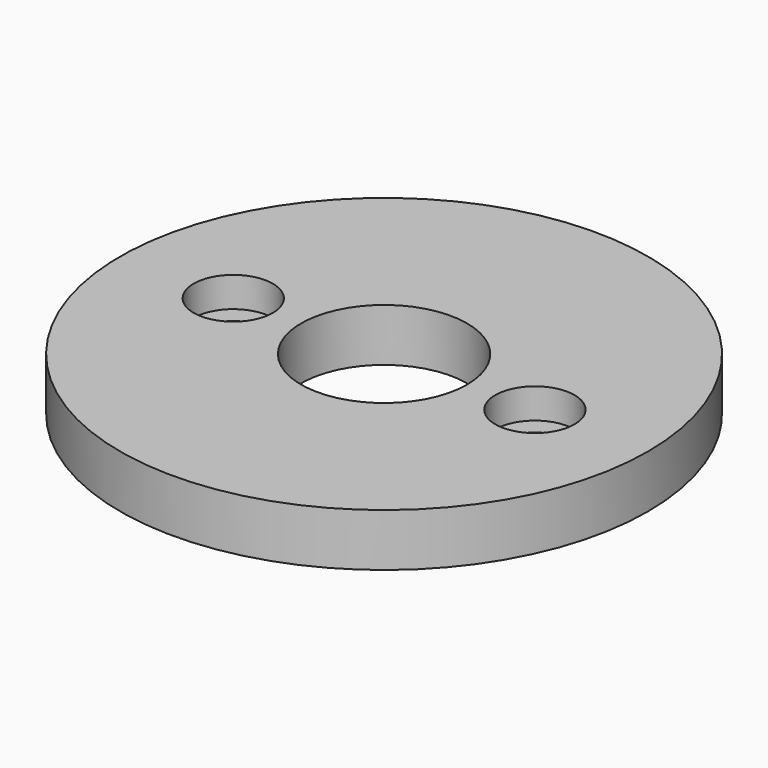
from build123d import *

# Parameters (mm, degrees)
SKETCH_R        = 35
PAD_DEPTH       = 7
SKETCH002_R     = 11
POCKET_DEPTH    = 7
SKETCH003_R     = 5.25
POCKET001_DEPTH = 4
SKETCH004_R     = 2.625
POCKET002_DEPTH = 1


with BuildPart() as part:
    # Sketch → Pad (new body)
    with BuildSketch(Plane.XY):
        Circle(SKETCH_R)
    extrude(amount=PAD_DEPTH)

    # Sketch002 → Pocket (cut)
    with BuildSketch(Plane(origin=(0, 0, 0), x_dir=(1, 0, 0), z_dir=(0, 0, -1))):
        Circle(SKETCH002_R)
    extrude(amount=-POCKET_DEPTH, mode=Mode.SUBTRACT)

    # Sketch003 (on Face3 of Pocket) → Pocket001 (cut)
    with BuildSketch(Plane.XY.offset(7)):
        with Locations((20, 0)):
            Circle(SKETCH003_R)
        with Locations((-20, 0)):
            Circle(SKETCH003_R)
    extrude(amount=-POCKET001_DEPTH, mode=Mode.SUBTRACT)

    # Sketch004 (on Face7 of Pocket001) → Pocket002 (cut)
    with BuildSketch(Plane.XY.offset(3)):
        with Locations((-20, 0)):
            Circle(SKETCH004_R)
        with Locations((20, 0)):
            Circle(SKETCH004_R)
    extrude(amount=-POCKET002_DEPTH, mode=Mode.SUBTRACT)


solid = part.part
